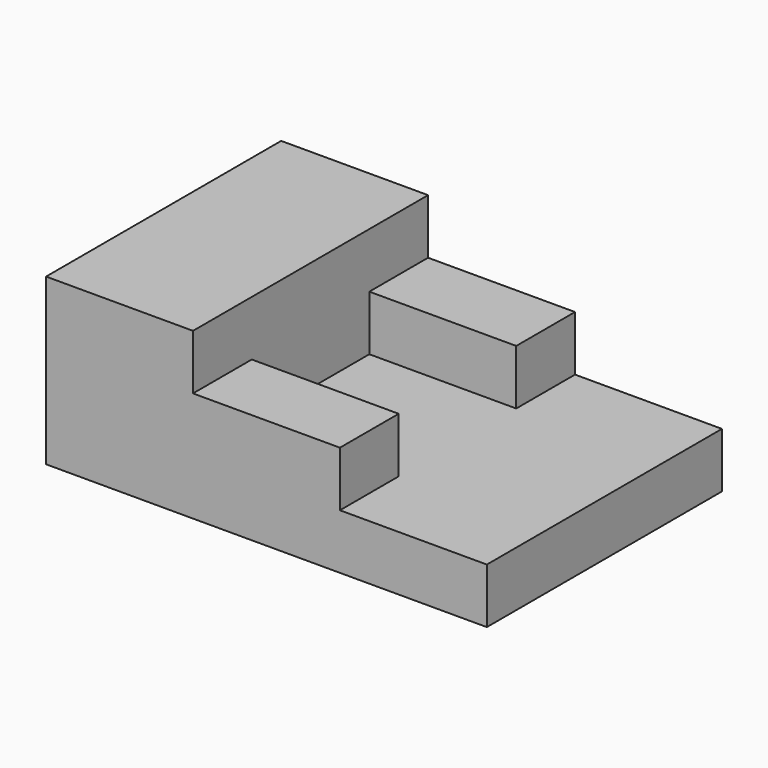
from build123d import *

# Parameters (mm, degrees)
F0_W     = 76.2
F0_H     = 50.8
F1_DEPTH = 9.525
F2_W     = 25.4
F2_H     = 12.7
F2_H_2   = 25.4
F3_DEPTH = 19.05
F4_DEPTH = 9.525


with BuildPart() as f1:
    # F0 (on Top) → F1 (new body)
    with BuildSketch(Plane.XY):
        Rectangle(F0_W, F0_H)
    extrude(amount=F1_DEPTH)

    # F2 (on face) → F3 (join)
    with BuildSketch(Plane.XY.offset(9.525)):
        with Locations((-25.4, 19.05)):
            Rectangle(F2_W, F2_H)
        with Locations((-25.4, 0)):
            Rectangle(F2_W, F2_H_2)
        with Locations((-25.4, -19.05)):
            Rectangle(F2_W, F2_H)
    extrude(amount=F3_DEPTH)

    # F2 (on face) → F4 (join)
    with BuildSketch(Plane.XY.offset(9.525)):
        with Locations((-25.4, 19.05)):
            Rectangle(F2_W, F2_H)
        with Locations((0, 19.05)):
            Rectangle(F2_W, F2_H)
        with Locations((-25.4, 0)):
            Rectangle(F2_W, F2_H_2)
        with Locations((-25.4, -19.05)):
            Rectangle(F2_W, F2_H)
        with Locations((0, -19.05)):
            Rectangle(F2_W, F2_H)
    extrude(amount=F4_DEPTH)


solid = f1.part
